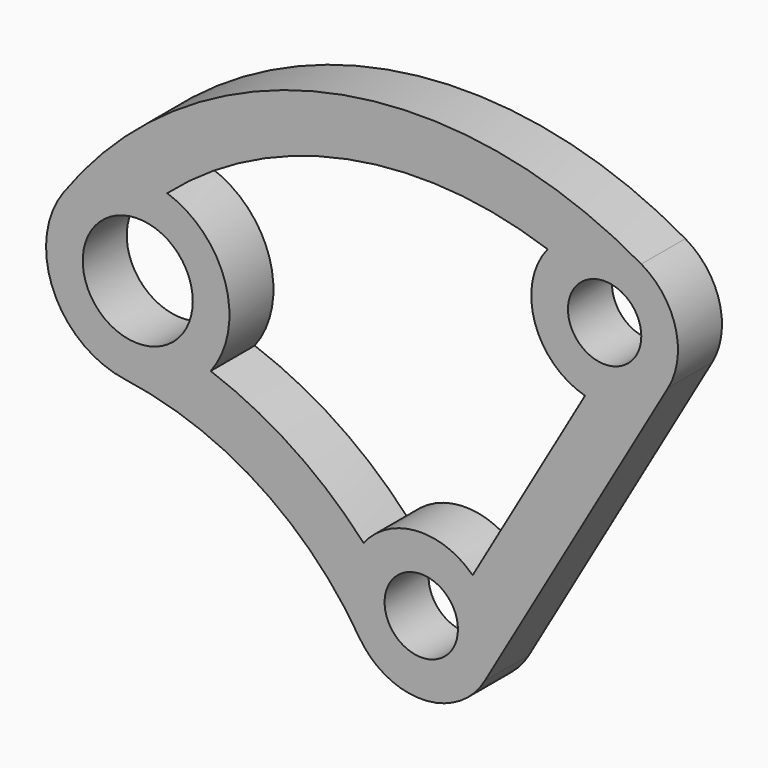
from build123d import *

# Parameters (mm, degrees)
F0_R     = 254
F0_R_2   = 381
F1_DEPTH = 381


with BuildPart() as f1:
    # F0 (on Front) → F1 (new body)
    with BuildSketch(Plane.XZ):
        with BuildLine():
            ThreePointArc((1709.940905, 1945.704526), (1760.69032, 2331.184601), (1524, 2639.645431))
            ThreePointArc((1524, 2639.645431), (-645.687662, 2978.823835), (-2480.199573, 1771.698078))
            ThreePointArc((-2480.199573, 1771.698078), (-2546.703406, 1151.419727), (-2050.326779, 773.559651))
            ThreePointArc((-2050.326779, 773.559651), (-1124.444661, 430.47682), (-429.624437, -271.084569))
            ThreePointArc((-429.624437, -271.084569), (9.978878, -507.901981), (439.940905, -254))
            Line((439.940905, -254), (1709.940905, 1945.704526))
        make_face()
        Circle(F0_R, mode=Mode.SUBTRACT)
        with Locations((-1963.491328, 1402.594312)):
            Circle(F0_R_2, mode=Mode.SUBTRACT)
        with BuildLine():
            Line((1134.050784, 1710.233576), (355.919669, 362.47095))
            ThreePointArc((355.919669, 362.47095), (-32.605305, 506.952556), (-399.420709, 313.890262))
            ThreePointArc((-399.420709, 313.890262), (-886.275854, 729.928506), (-1458.272343, 1017.914215))
            ThreePointArc((-1458.272343, 1017.914215), (-1356.238986, 1588.254198), (-1759.76382, 2004.026022))
            ThreePointArc((-1759.76382, 2004.026022), (-511.877657, 2617.416716), (875.150152, 2519.325547))
            ThreePointArc((875.150152, 2519.325547), (786.167006, 2044.883229), (1134.050784, 1710.233576))
        make_face(mode=Mode.SUBTRACT)
        with Locations((1270, 2199.704526)):
            Circle(F0_R, mode=Mode.SUBTRACT)
    extrude(amount=F1_DEPTH)


solid = f1.part
